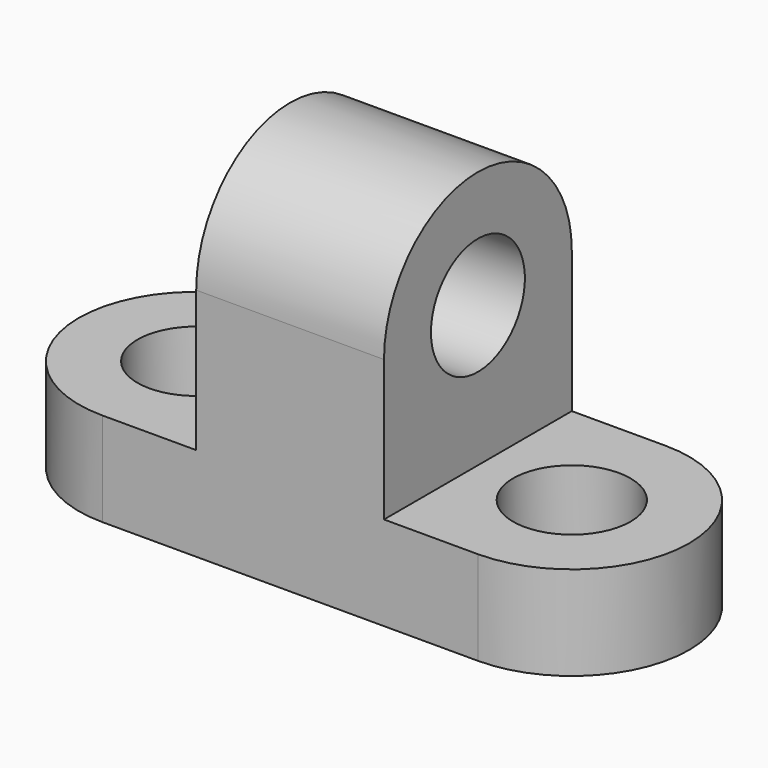
from build123d import *

# Parameters (mm, degrees)
F0_W     = 40
F0_H     = 50
F0_R     = 12.5
F1_DEPTH = 20
F2_DEPTH = 30
F4_DEPTH = 40
F5_DEPTH = 85.001


with BuildPart() as f1:
    # F0 (on Top) → F1 (new body)
    with BuildSketch(Plane.XY):
        with Locations((20, -25)):
            Rectangle(F0_W, F0_H)
        with BuildLine():
            Line((0, -50), (0, 0))
            Line((0, 0), (-20, 0))
            ThreePointArc((-20, 0), (-45, -25), (-20, -50))
            Line((-20, -50), (0, -50))
        make_face()
        with Locations((-20, -25)):
            Circle(F0_R, mode=Mode.SUBTRACT)
        with BuildLine():
            Line((60, 0), (40, 0))
            Line((40, 0), (40, -50))
            Line((40, -50), (60, -50))
            ThreePointArc((60, -50), (85, -25), (60, 0))
        make_face()
        with Locations((60, -25)):
            Circle(F0_R, mode=Mode.SUBTRACT)
    extrude(amount=-F1_DEPTH)

    # F0 (on Top) → F2 (join)
    with BuildSketch(Plane.XY):
        with Locations((20, -25)):
            Rectangle(F0_W, F0_H)
    extrude(amount=F2_DEPTH)

    # F3 (on Right) → F4 (join)
    with BuildSketch(Plane.YZ):
        with BuildLine():
            Line((-50, 0), (0, 0))
            Line((0, 0), (0, 30))
            Line((0, 30), (-12.5, 30))
            ThreePointArc((-12.5, 30), (-25, 17.5), (-37.5, 30))
            Line((-37.5, 30), (-50, 30))
            Line((-50, 30), (-50, 0))
        make_face()
        with BuildLine():
            Line((-12.5, 30), (0, 30))
            ThreePointArc((0, 30), (-25, 55), (-50, 30))
            Line((-50, 30), (-37.5, 30))
            ThreePointArc((-37.5, 30), (-25, 42.5), (-12.5, 30))
        make_face()
    extrude(amount=F4_DEPTH)

    # F3 (on Right) → F5 (cut, through all)
    with BuildSketch(Plane.YZ):
        with BuildLine():
            ThreePointArc((-37.5, 30), (-25, 17.5), (-12.5, 30))
            Line((-12.5, 30), (-37.5, 30))
        make_face()
    extrude(amount=F5_DEPTH, mode=Mode.SUBTRACT)


solid = f1.part
